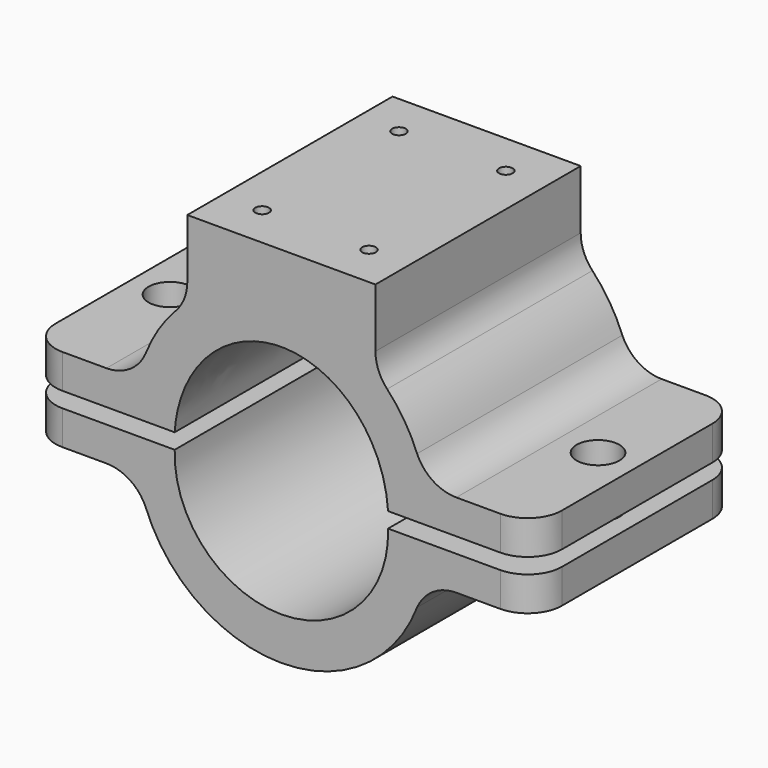
from build123d import *

# Parameters (mm, degrees)
F1_DEPTH   = 38.1
F3_D       = 6.35
F3_DEPTH   = 12.7
F3_TIP     = 1.9077324654
F3_2_D     = 6.35
F3_2_DEPTH = 12.7
F3_2_TIP   = 1.9077324654
F5_D       = 2.032
F5_DEPTH   = 25.4
F5_TIP     = 0.6104743889
F6_R       = 5.08
F6_2_R     = 5.08


with BuildPart() as f1:
    # F0 (on Front) → F1 (new body)
    with BuildSketch(Plane.XZ):
        with BuildLine():
            add(Edge.make_bspline(
                [(15.8409553423, 1.1430258969), (14.8677701559, 17.4625), (0, 17.4625), (-14.8677701559, 17.4625), (-15.8409553423, 1.1430258969)],
                knots=[1.6362991866, 1.6362991866, 1.6362991866, 3.1415926536, 3.1415926536, 4.6468861206, 4.6468861206, 4.6468861206], degree=2, weights=[1, 0.729882192, 1, 0.729882192, 1]))
            Line((15.8409553423, 1.1430258969), (37.5891549855, 1.1430258969))
            Line((37.5891549855, 1.1430258969), (37.5891549855, 6.2230258973))
            Line((37.5891549855, 6.2230258973), (25.9791738172, 6.2230258973))
            ThreePointArc((25.9791738172, 6.2230258973), (22.4950983779, 7.2641919074), (20.1535429146, 10.0462642176))
            ThreePointArc((20.1535429146, 10.0462642176), (18.2705029961, 13.7649454006), (15.7093012107, 17.0535126403))
            ThreePointArc((15.7093012107, 17.0535126403), (14.4208290036, 19.0697882678), (13.9700000244, 21.4197417283))
            Line((13.9700000244, 21.4197417283), (13.9700000244, 30.1608613677))
            Line((13.9700000244, 30.1608613677), (-13.9700000243, 30.1608613677))
            Line((-13.9700000243, 30.1608613677), (-13.9700000243, 21.419741954))
            ThreePointArc((-13.9700000243, 21.419741954), (-14.4208290165, 19.0697884608), (-15.7093012591, 17.0535128148))
            ThreePointArc((-15.7093012591, 17.0535128148), (-18.2705045645, 13.7649432645), (-20.1535450557, 10.0462592811))
            ThreePointArc((-20.1535450557, 10.0462592811), (-22.4951019105, 7.2641851476), (-25.9791799057, 6.2230196887))
            Line((-25.9791799057, 6.2230196887), (-37.5893437065, 6.2230258969))
            Line((-37.5893437065, 6.2230258969), (-37.5893437065, 1.1430258969))
            Line((-37.5893437065, 1.1430258969), (-15.8409553423, 1.1430258969))
        make_face()
    extrude(amount=F1_DEPTH)

    # F3
    with Locations(Plane(origin=(3.3276e-06, 0, 6.2230057969), x_dir=(1, 0, -5.347e-07), z_dir=(5.347e-07, 0, 1))):
        with Locations((-31.7842651337, -19.05), (31.7841610737, -19.05)):
            Hole(F3_D / 2, depth=F3_DEPTH)
            with Locations((0, 0, -(F3_DEPTH + F3_TIP / 2))):  # 118° drill point
                Cone(0, F3_D / 2, F3_TIP, mode=Mode.SUBTRACT)

    # F5
    with Locations(Plane.XY.offset(30.1608613677)):
        with Locations((-7.9375, -6.35), (7.9375, -6.35), (7.9375, -31.75), (-7.9375, -31.75)):
            Hole(F5_D / 2, depth=F5_DEPTH)
            with Locations((0, 0, -(F5_DEPTH + F5_TIP / 2))):  # 118° drill point
                Cone(0, F5_D / 2, F5_TIP, mode=Mode.SUBTRACT)

    # F6#2
    f6_2_edges = [f1.edges().sort_by_distance(p)[0] for p in [
        (37.589155, 0, 3.683026),
        (-37.589344, 0, 3.683026),
        (-37.589344, -38.1, 3.683026),
        (37.589155, -38.1, 3.683026),
    ]]
    fillet(f6_2_edges, radius=F6_2_R)


with BuildPart() as f1b:
    # F0 (on Front) → F1, piece 2 (new body)
    with BuildSketch(Plane.XZ):
        with BuildLine():
            Line((37.5891549855, -6.2230258973), (37.5891549855, -1.1430258969))
            Line((37.5891549855, -1.1430258969), (15.8409553423, -1.1430258969))
            ThreePointArc((15.8409553423, -1.1430258969), (0, -17.5142655313), (-15.8409553423, -1.1430258969))
            Line((-15.8409553423, -1.1430258969), (-37.5893437065, -1.1430258969))
            Line((-37.5893437065, -1.1430258969), (-37.5893437065, -6.2230258969))
            Line((-37.5893437065, -6.2230258969), (-25.9791799057, -6.2230196887))
            ThreePointArc((-25.9791799057, -6.2230196885), (-22.4951019106, -7.2641851474), (-20.1535450558, -10.0462592809))
            Line((-20.1535450558, -10.0462592809), (-20.153436098, -10.0462592809))
            ThreePointArc((-20.153436098, -10.0462592809), (5.17161e-05, -23.8642655314), (20.1535429148, -10.0462642172))
            ThreePointArc((20.1535429148, -10.0462642172), (22.4950983781, -7.264191907), (25.9791738174, -6.223025897))
            Line((25.9791738172, -6.2230258973), (37.5891549855, -6.2230258973))
        make_face()
    extrude(amount=F1_DEPTH)

    # F3#2
    with Locations(Plane(origin=(3.3276e-06, 0, 6.2230057969), x_dir=(1, 0, -5.347e-07), z_dir=(5.347e-07, 0, 1))):
        with Locations((-31.7842651337, -19.05), (31.7841610737, -19.05)):
            Hole(F3_2_D / 2, depth=F3_2_DEPTH)
            with Locations((0, 0, -(F3_2_DEPTH + F3_2_TIP / 2))):  # 118° drill point
                Cone(0, F3_2_D / 2, F3_2_TIP, mode=Mode.SUBTRACT)

    # F6
    f6_edges = [f1b.edges().sort_by_distance(p)[0] for p in [
        (-37.589344, 0, -3.683026),
        (37.589155, 0, -3.683026),
        (-37.589344, -38.1, -3.683026),
        (37.589155, -38.1, -3.683026),
    ]]
    fillet(f6_edges, radius=F6_R)


solid = Compound([f1.part, f1b.part])
